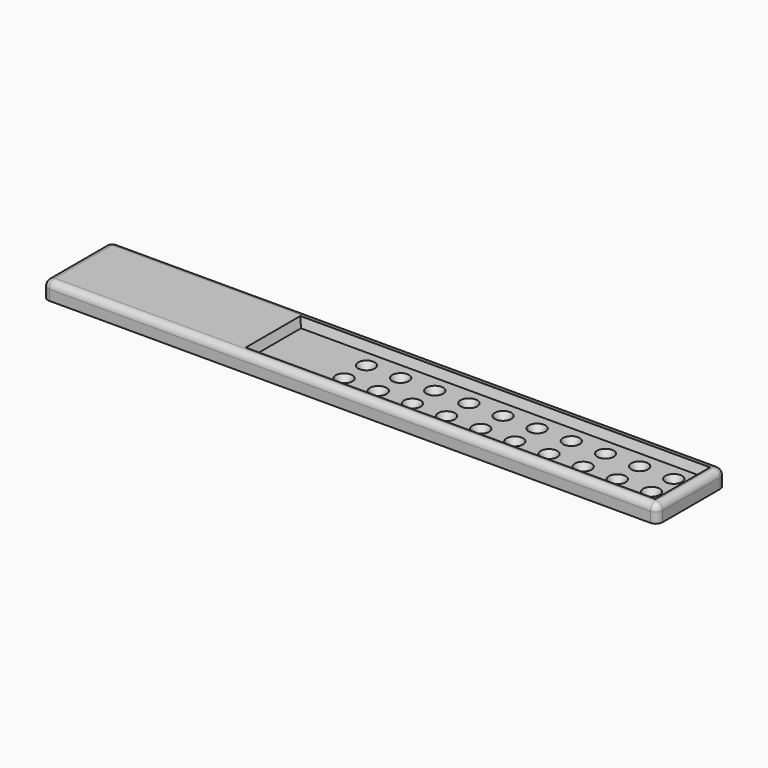
from build123d import *

# Parameters (mm, degrees)
F0_W     = 457.2
F0_H     = 63.5
F1_DEPTH = 12.7
F2_W     = 304.8
F2_H     = 50.8
F3_DEPTH = 6.35
F3_TAPER = 20
F4_R     = 5.08
F5_R     = 2.54
F6_DEPTH = 12.7010001
F6_TAPER = -30


with BuildPart() as f1:
    # F0 (on Top) → F1 (new body)
    with BuildSketch(Plane.XY):
        Rectangle(F0_W, F0_H)
    extrude(amount=-F1_DEPTH)

    # F2 (on face) → F3 (cut)
    with BuildSketch(Plane.XY):
        with Locations((69.85, 0)):
            Rectangle(F2_W, F2_H)
    extrude(amount=-F3_DEPTH, taper=F3_TAPER, mode=Mode.SUBTRACT)

    # F4
    f4_edges = [f1.edges().sort_by_distance(p)[0] for p in [
        (0, 31.75, 0),
        (228.6, 0, 0),
        (228.6, 31.75, -6.35),
        (228.6, -31.75, -6.35),
        (-228.6, 31.75, -6.35),
        (-228.6, 0, 0),
        (0, -31.75, 0),
        (-228.6, -31.75, -6.35),
    ]]
    fillet(f4_edges, radius=F4_R)

    # F5 (on face) → F6 (cut, through all)
    with BuildSketch(Plane(origin=(0, 0, -12.7), x_dir=(1, 0, 0), z_dir=(0, 0, -1))):
        with Locations((207.2387890124, -10.3887890124)):
            Circle(F5_R)
        with Locations((207.2387890124, 10.3887890124)):
            Circle(F5_R)
        with Locations((181.8387890124, -10.3887890124)):
            Circle(F5_R)
        with Locations((181.8387890124, 10.3887890124)):
            Circle(F5_R)
        with Locations((156.4387890124, -10.3887890124)):
            Circle(F5_R)
        with Locations((156.4387890124, 10.3887890124)):
            Circle(F5_R)
        with Locations((131.0387890124, -10.3887890124)):
            Circle(F5_R)
        with Locations((131.0387890124, 10.3887890124)):
            Circle(F5_R)
        with Locations((105.6387890124, -10.3887890124)):
            Circle(F5_R)
        with Locations((105.6387890124, 10.3887890124)):
            Circle(F5_R)
        with Locations((80.2387890124, -10.3887890124)):
            Circle(F5_R)
        with Locations((80.2387890124, 10.3887890124)):
            Circle(F5_R)
        with Locations((54.8387890124, -10.3887890124)):
            Circle(F5_R)
        with Locations((54.8387890124, 10.3887890124)):
            Circle(F5_R)
        with Locations((29.4387890124, -10.3887890124)):
            Circle(F5_R)
        with Locations((29.4387890124, 10.3887890124)):
            Circle(F5_R)
        with Locations((4.0387890124, -10.3887890124)):
            Circle(F5_R)
        with Locations((4.0387890124, 10.3887890124)):
            Circle(F5_R)
        with Locations((-21.3612109876, -10.3887890124)):
            Circle(F5_R)
        with Locations((-21.3612109876, 10.3887890124)):
            Circle(F5_R)
    extrude(amount=-F6_DEPTH, taper=F6_TAPER, mode=Mode.SUBTRACT)


solid = f1.part
